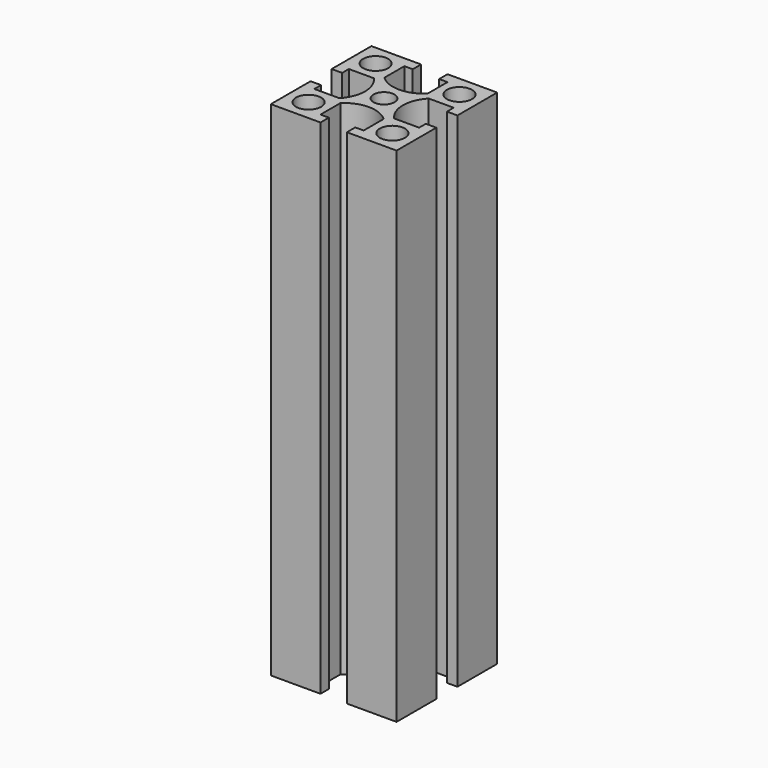
from build123d import *

# Parameters (mm, degrees)
F0_R     = 3
F0_R_2   = 2.5
F1_DEPTH = 120


with BuildPart() as f1:
    # F0 (on Top) → F1 (new body)
    with BuildSketch(Plane.XY):
        with BuildLine():
            Line((-15, 15), (-15, 3.15))
            Line((-15, 3.15), (-12.5, 3.15))
            Line((-12.5, 3.15), (-12.5, 5.15))
            Line((-12.5, 5.15), (-6.547707, 5.15))
            ThreePointArc((-6.547707, 5.15), (-4.5, 0), (-6.547707, -5.15))
            Line((-6.547707, -5.15), (-12.5, -5.15))
            Line((-12.5, -5.15), (-12.5, -3.15))
            Line((-12.5, -3.15), (-15, -3.15))
            Line((-15, -3.15), (-15, -15))
            Line((-15, -15), (-3.15, -15))
            Line((-3.15, -15), (-3.15, -12.5))
            Line((-3.15, -12.5), (-5.15, -12.5))
            Line((-5.15, -12.5), (-5.15, -6.547707))
            ThreePointArc((-5.15, -6.547707), (0, -4.5), (5.15, -6.547707))
            Line((5.15, -6.547707), (5.15, -12.5))
            Line((5.15, -12.5), (3.15, -12.5))
            Line((3.15, -12.5), (3.15, -15))
            Line((3.15, -15), (15, -15))
            Line((15, -15), (15, -3.15))
            Line((15, -3.15), (12.5, -3.15))
            Line((12.5, -3.15), (12.5, -5.15))
            Line((12.5, -5.15), (6.547707, -5.15))
            ThreePointArc((6.547707, -5.15), (4.5, 0), (6.547707, 5.15))
            Line((6.547707, 5.15), (12.5, 5.15))
            Line((12.5, 5.15), (12.5, 3.15))
            Line((12.5, 3.15), (15, 3.15))
            Line((15, 3.15), (15, 15))
            Line((15, 15), (3.15, 15))
            Line((3.15, 15), (3.15, 12.5))
            Line((3.15, 12.5), (5.15, 12.5))
            Line((5.15, 12.5), (5.15, 6.547707))
            ThreePointArc((5.15, 6.547707), (0, 4.5), (-5.15, 6.547707))
            Line((-5.15, 6.547707), (-5.15, 12.5))
            Line((-5.15, 12.5), (-3.15, 12.5))
            Line((-3.15, 12.5), (-3.15, 15))
            Line((-3.15, 15), (-15, 15))
        make_face()
        with Locations((-10, -10)):
            Circle(F0_R, mode=Mode.SUBTRACT)
        with Locations((10, -10)):
            Circle(F0_R, mode=Mode.SUBTRACT)
        with Locations((-10, 10)):
            Circle(F0_R, mode=Mode.SUBTRACT)
        Circle(F0_R_2, mode=Mode.SUBTRACT)
        with Locations((10, 10)):
            Circle(F0_R, mode=Mode.SUBTRACT)
    extrude(amount=F1_DEPTH)


solid = f1.part
